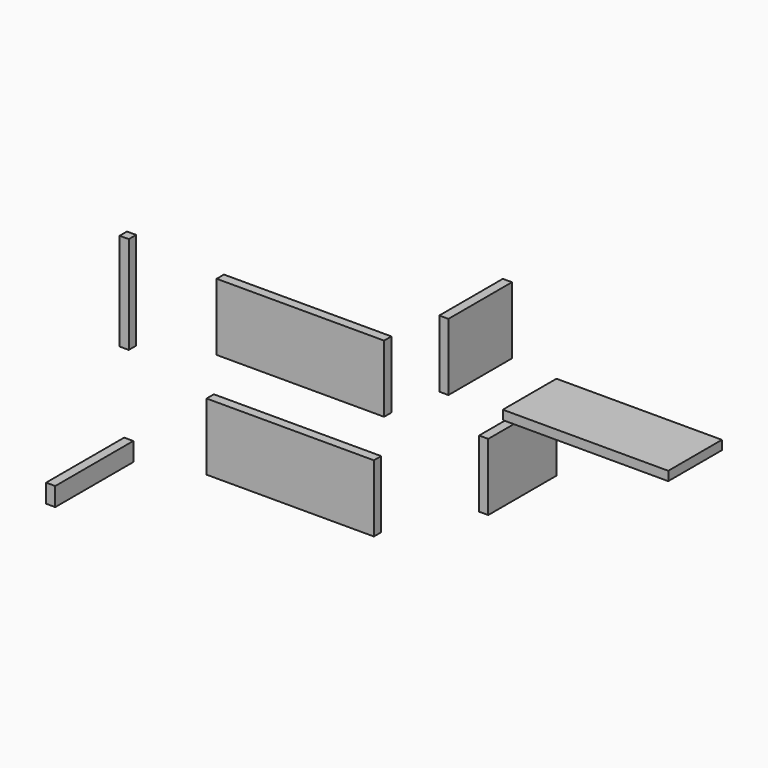
from build123d import *

# Parameters (mm, degrees)
F0_W      = 348.765551
F0_H      = 139.7
F1_DEPTH  = 19.05
F2_W      = 348.517242
F2_H      = 139.7
F3_DEPTH  = 19.05
F4_W      = 165.443052
F4_H      = 139.7
F5_DEPTH  = 19.05
F6_W      = 177.509875
F6_H      = 139.7
F7_DEPTH  = 19.05
F8_W      = 19.05
F8_H      = 19.165736
F9_DEPTH  = 203.2
F10_W     = 19.05
F10_H     = 38.723851
F11_DEPTH = 203.2
F12_W     = 344.59879
F12_H     = 139.7
F13_DEPTH = 19.05


with BuildPart() as f1:
    # F0 (on Front) → F1 (new body)
    with BuildSketch(Plane.XZ):
        with Locations((-100.046531, 31.338243)):
            Rectangle(F0_W, F0_H)
    extrude(amount=F1_DEPTH)


with BuildPart() as f3:
    # F2 (on Front) → F3 (new body)
    with BuildSketch(Plane.XZ):
        with Locations((-121.208172, -195.022788)):
            Rectangle(F2_W, F2_H)
    extrude(amount=F3_DEPTH)


with BuildPart() as f5:
    # F4 (on Right) → F5 (new body)
    with BuildSketch(Plane.YZ):
        with Locations((300.24004, -42.928476)):
            Rectangle(F4_W, F4_H)
    extrude(amount=F5_DEPTH)


with BuildPart() as f7:
    # F6 (on Right) → F7 (new body)
    with BuildSketch(Plane.YZ):
        with Locations((409.932136, -305.094056)):
            Rectangle(F6_W, F6_H)
    extrude(amount=F7_DEPTH)


with BuildPart() as f9:
    # F8 (on Top) → F9 (new body)
    with BuildSketch(Plane.XY):
        with Locations((-360.31574, -142.722741)):
            Rectangle(F8_W, F8_H)
    extrude(amount=F9_DEPTH)


with BuildPart() as f11:
    # F10 (on Front) → F11 (new body)
    with BuildSketch(Plane.XZ):
        with Locations((-472.798452, -284.725294)):
            Rectangle(F10_W, F10_H)
    extrude(amount=F11_DEPTH)


with BuildPart() as f13:
    # F12 (on Top) → F13 (new body)
    with BuildSketch(Plane.XY):
        with Locations((450.725451, 104.710254)):
            Rectangle(F12_W, F12_H)
    extrude(amount=F13_DEPTH)


solid = Compound([f1.part, f3.part, f5.part, f7.part, f9.part, f11.part, f13.part])
